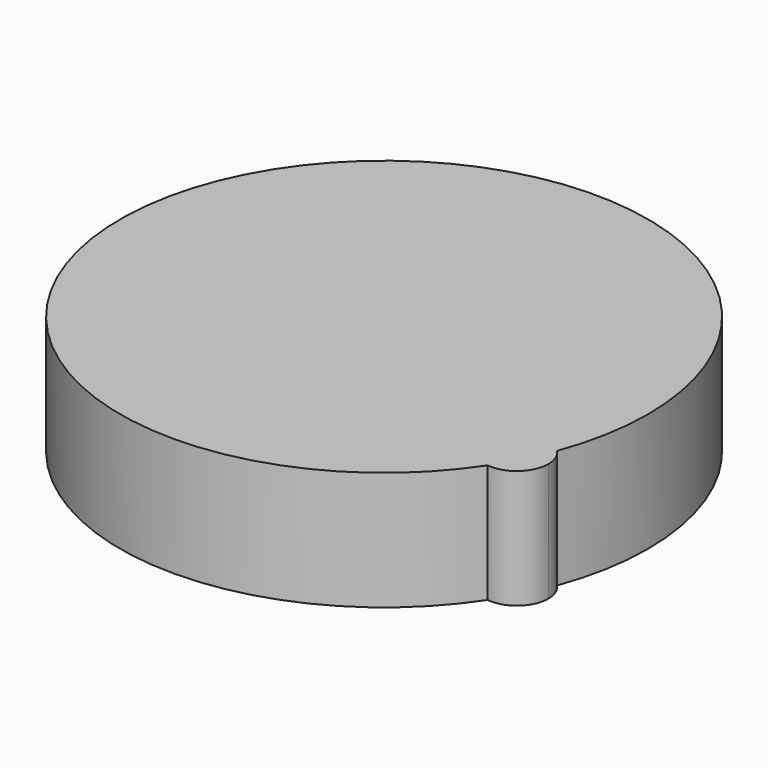
from build123d import *

# Parameters (mm, degrees)
F1_DEPTH = 25.4


with BuildPart() as f1:
    # F0 (on Top) → F1 (new body)
    with BuildSketch(Plane.XY):
        with BuildLine():
            ThreePointArc((-13.427980733, -28.3072836411), (-10.7304166044, -18.5317269745), (-9.8214928904, -8.4316171706))
            ThreePointArc((-9.8214928904, -8.4316171706), (-120.5619663168, 7.8796516275), (-19.2275534657, -39.6687102438))
            ThreePointArc((-19.2275534657, -39.6687102438), (-24.3663806094, -29.8845929113), (-13.427980733, -28.3072836411))
        make_face()
        with BuildLine():
            ThreePointArc((-13.427980733, -28.3072836411), (-24.3663806094, -29.8845929113), (-19.2275534657, -39.6687102438))
            ThreePointArc((-19.2275534657, -39.6687102438), (-16.006513201, -34.1519847421), (-13.427980733, -28.3072836411))
        make_face()
        with BuildLine():
            ThreePointArc((-13.427980733, -28.3072836411), (-16.006513201, -34.1519847421), (-19.2275534657, -39.6687102438))
            ThreePointArc((-19.2275534657, -39.6687102438), (-13.8802443335, -38.0495721027), (-11.5735651152, -32.9609028995))
            ThreePointArc((-11.5735651152, -32.9609028995), (-12.0542426984, -30.456155932), (-13.427980733, -28.3072836411))
        make_face()
    extrude(amount=F1_DEPTH)


solid = f1.part
